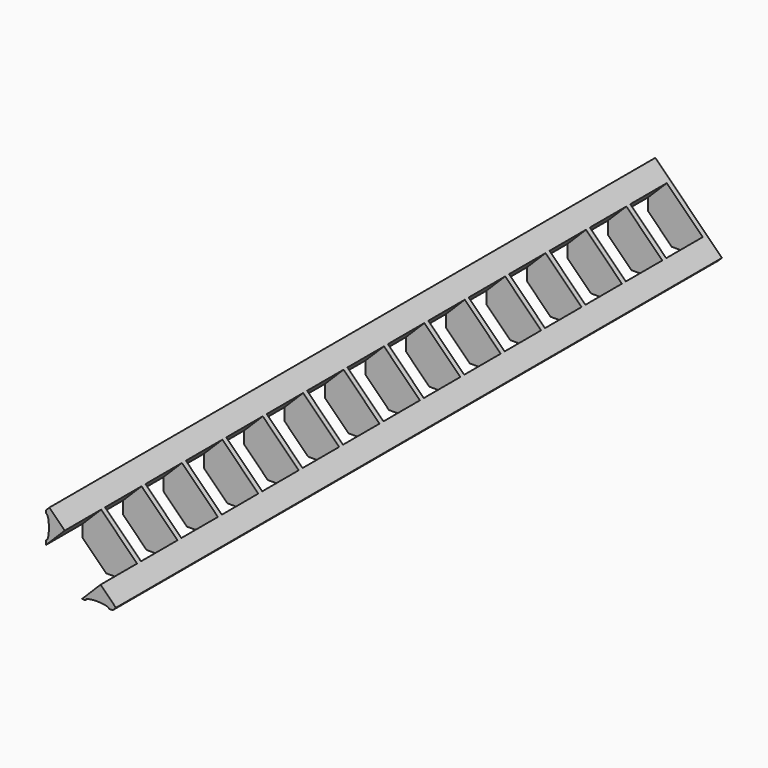
from build123d import *

# Parameters (mm, degrees)
PAD001_DEPTH        = 1.6
PAD002_DEPTH        = 248.7
LINEARPATTERN_COUNT = 15
LINEARPATTERN_PITCH = 16.58
POCKET_DEPTH        = 248.701


with BuildPart() as part:
    # Sketch001 → Pad001 (new body)
    with BuildSketch(Plane.XZ):
        Polygon((1.272792, 23.122392), (0.2, 22.0496), (0.2, 7.931728), (7.931728, 0.2), (22.0496, 0.2), (23.122392, 1.272792), align=None)
    pad001 = extrude(amount=PAD001_DEPTH)

    # Sketch002 → Pad002 (join)
    with BuildSketch(Plane.XZ):
        Polygon((1.272792, 23.122392), (0.2, 22.0496), (0.2, 11.985349), (6.304918, 18.090266), align=None)
        Polygon((23.122392, 1.272792), (18.090266, 6.304918), (11.985349, 0.2), (22.0496, 0.2), align=None)
    extrude(amount=PAD002_DEPTH)

    # LinearPattern: Pad001 ×15
    with Locations(*[(0, -i * LINEARPATTERN_PITCH, 0) for i in range(1, LINEARPATTERN_COUNT)]):
        add(pad001)

    # Sketch003 → Pocket (cut, through all)
    with BuildSketch(Plane.XZ):
        with BuildLine():
            add(Edge.make_bspline(
                [(0.2, 21.112906), (1.431644, 21.112906), (1.431644, 13.372407), (0.2, 13.372407)],
                knots=[0, 0, 0, 0, 1, 1, 1, 1], degree=3))
            Line((0.2, 13.372407), (0.2, 21.112906))
        make_face()
        with BuildLine():
            add(Edge.make_bspline(
                [(20.852737, 0.2), (20.852737, 1.431644), (13.112238, 1.431644), (13.112238, 0.2)],
                knots=[0, 0, 0, 0, 1, 1, 1, 1], degree=3))
            Line((13.112238, 0.2), (20.852737, 0.2))
        make_face()
    extrude(amount=POCKET_DEPTH, mode=Mode.SUBTRACT)


solid = part.part
